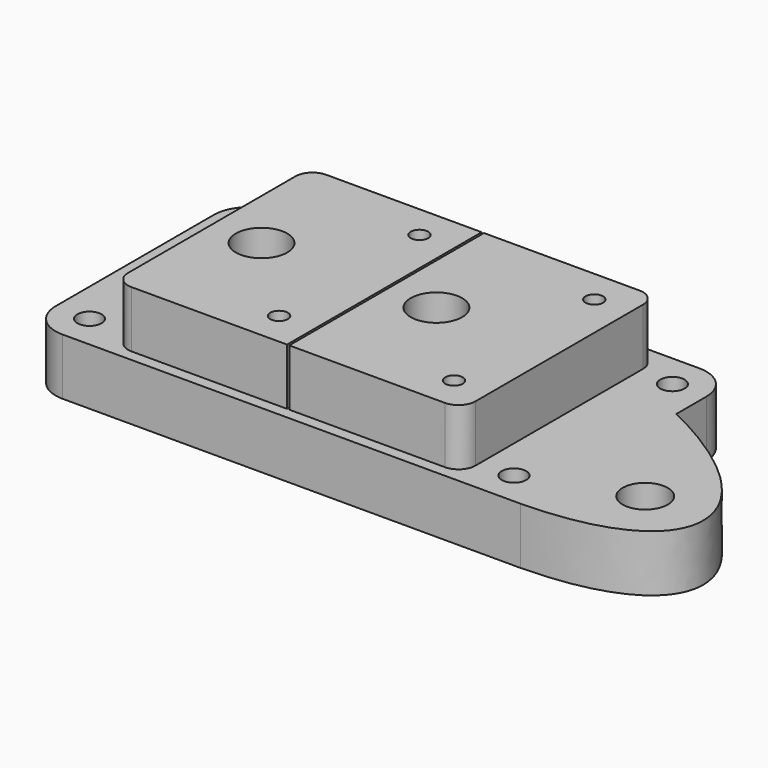
from build123d import *

# Parameters (mm, degrees)
F0_R     = 2.15
F0_R_2   = 4
F1_DEPTH = 10
F0_R_3   = 4.5
F0_R_4   = 4.55
F2_DEPTH = 20
F3_START = 17
F0_R_5   = 1.55
F3_DEPTH = 3
F4_R     = 6
F5_R     = 3


with BuildPart() as f1:
    # F0 (on Top) → F1 (new body)
    with BuildSketch(Plane.XY):
        Polygon((73.3899642625, 49.4741697694), (-13.6100357375, 49.4741697694), (-13.6100357375, 2.4741697694), (73.3899642625, 2.4741697694), (73.3899642625, 36.8359796703), align=None)
        with Locations((-7.6100357375, 8.4741697694)):
            Circle(F0_R, mode=Mode.SUBTRACT)
        Polygon((-0.0100357375, 4.4741697694), (-0.0100357375, 47.4741697694), (30.4899642625, 47.4741697694), (30.4899642625, 4.4741697694), (20.6151821792, 4.4741697694), (8.9151821792, 4.4741697694), align=None, mode=Mode.SUBTRACT)
        with Locations((67.3899642625, 8.4741697694)):
            Circle(F0_R, mode=Mode.SUBTRACT)
        with Locations((-7.6100357375, 43.4741697694)):
            Circle(F0_R, mode=Mode.SUBTRACT)
        Polygon((30.8899642625, 4.4741697694), (30.8899642625, 47.4741697694), (61.3899642625, 47.4741697694), (61.3899642625, 4.4741697694), (53.5151823588, 4.4741697694), (41.8151823588, 4.4741697694), align=None, mode=Mode.SUBTRACT)
        with Locations((67.3899642625, 43.4741697694)):
            Circle(F0_R, mode=Mode.SUBTRACT)
        with BuildLine():
            add(Edge.make_bspline(
                [(73.3899642625, 2.4741697694), (104.1805148125, 2.9646980111), (103.3740565181, 22.3197154701), (73.3899642625, 36.8359796703)],
                knots=[0, 0, 0, 0, 34.3618099009, 34.3618099009, 34.3618099009, 34.3618099009], degree=3))
            Line((73.3899642625, 36.8359796703), (73.3899642625, 2.4741697694))
        make_face()
        with Locations((85.3899642625, 14.960267581)):
            Circle(F0_R_2, mode=Mode.SUBTRACT)
    extrude(amount=F1_DEPTH)

    # F0 (on Top) → F2 (join)
    with BuildSketch(Plane.XY):
        Polygon((30.4899642625, 47.4741697694), (-0.0100357375, 47.4741697694), (-0.0100357375, 4.4741697694), (8.9151821792, 4.4741697694), (20.6151821792, 4.4741697694), (30.4899642625, 4.4741697694), align=None)
        with Locations((24.2899642625, 10.4741697694)):
            Circle(F0_R_3, mode=Mode.SUBTRACT)
        with Locations((8.7899642625, 25.9741697694)):
            Circle(F0_R_4, mode=Mode.SUBTRACT)
        with Locations((24.2899642625, 41.4741697694)):
            Circle(F0_R_3, mode=Mode.SUBTRACT)
        Polygon((61.3899642625, 47.4741697694), (30.8899642625, 47.4741697694), (30.8899642625, 4.4741697694), (41.8151823588, 4.4741697694), (53.5151823588, 4.4741697694), (61.3899642625, 4.4741697694), align=None)
        with Locations((39.6899642625, 25.9741697694)):
            Circle(F0_R_4, mode=Mode.SUBTRACT)
        with Locations((55.1899642625, 10.4741697694)):
            Circle(F0_R_3, mode=Mode.SUBTRACT)
        with Locations((55.1899642625, 41.4741697694)):
            Circle(F0_R_3, mode=Mode.SUBTRACT)
    extrude(amount=F2_DEPTH)

    # F0 (on Top) → F3 (join)
    with BuildSketch(Plane.XY.offset(F3_START)):
        with Locations((24.2899642625, 41.4741697694)):
            Circle(F0_R_3)
        with Locations((24.2899642625, 41.4741697694)):
            Circle(F0_R_5, mode=Mode.SUBTRACT)
        with Locations((55.1899642625, 41.4741697694)):
            Circle(F0_R_3)
        with Locations((55.1899642625, 41.4741697694)):
            Circle(F0_R_5, mode=Mode.SUBTRACT)
        with Locations((55.1899642625, 10.4741697694)):
            Circle(F0_R_3)
        with Locations((55.1899642625, 10.4741697694)):
            Circle(F0_R_5, mode=Mode.SUBTRACT)
        with Locations((24.2899642625, 10.4741697694)):
            Circle(F0_R_3)
        with Locations((24.2899642625, 10.4741697694)):
            Circle(F0_R_5, mode=Mode.SUBTRACT)
    extrude(amount=F3_DEPTH)

    # F4
    f4_edges = [f1.edges().sort_by_distance(p)[0] for p in [
        (73.389964, 2.47417, 5),
        (73.389964, 49.47417, 5),
        (-13.610036, 49.47417, 5),
        (-13.610036, 2.47417, 5),
    ]]
    fillet(f4_edges, radius=F4_R)

    # F5
    f5_edges = [f1.edges().sort_by_distance(p)[0] for p in [
        (-0.010036, 4.47417, 15),
        (61.389964, 4.47417, 15),
        (61.389964, 47.47417, 15),
        (-0.010036, 47.47417, 15),
    ]]
    fillet(f5_edges, radius=F5_R)


solid = f1.part
